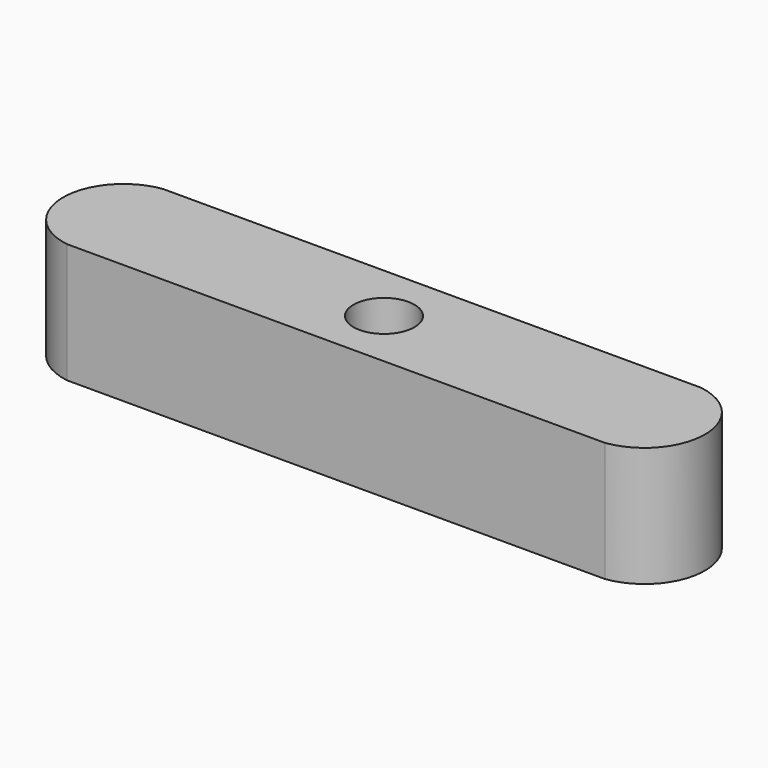
from build123d import *

# Parameters (mm, degrees)
F1_DEPTH = 9.4869
F2_R     = 3.937
F3_DEPTH = 5.2451
F4_R     = 2.413
F5_DEPTH = 4.2428


with BuildPart() as f1:
    # F0 (on Top) → F1 (new body)
    with BuildSketch(Plane.XY):
        with BuildLine():
            Line((21.283937, 4.7371), (-21.283937, 4.7371))
            ThreePointArc((-21.283937, 4.7371), (-25.4, 0), (-21.283937, -4.7371))
            Line((-21.283937, -4.7371), (21.283937, -4.7371))
            ThreePointArc((21.283937, -4.7371), (25.4, 0), (21.283937, 4.7371))
        make_face()
    extrude(amount=F1_DEPTH)

    # F2 (on face) → F3 (cut)
    with BuildSketch(Plane(origin=(0, 0, 0), x_dir=(1, 0, 0), z_dir=(0, 0, -1))):
        Circle(F2_R)
    extrude(amount=-F3_DEPTH, mode=Mode.SUBTRACT)

    # F4 (on face) → F5 (cut, through all)
    with BuildSketch(Plane(origin=(0, 0, 5.2451), x_dir=(1, 0, 0), z_dir=(0, 0, -1))):
        Circle(F4_R)
    extrude(amount=-F5_DEPTH, mode=Mode.SUBTRACT)


solid = f1.part
